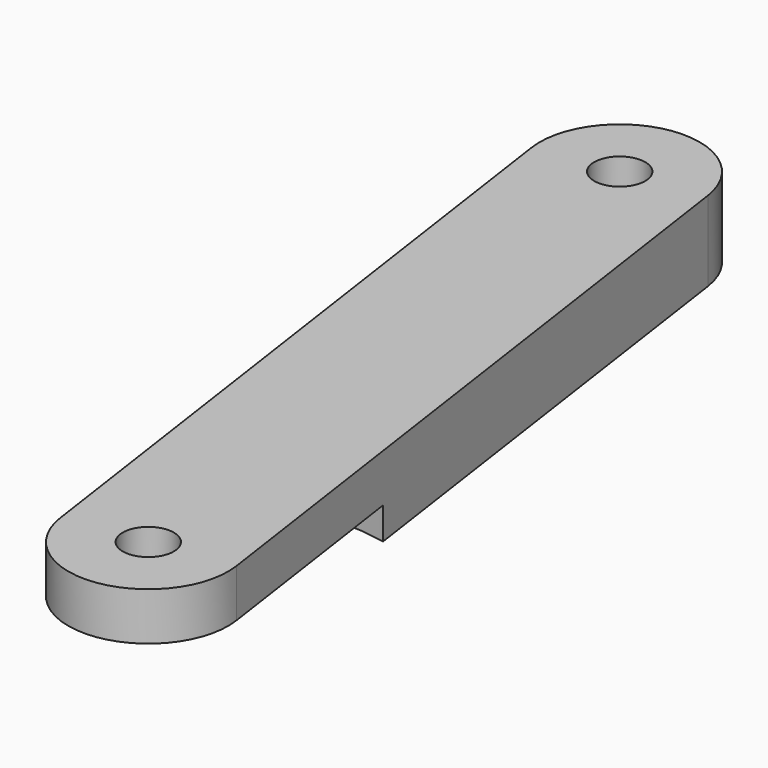
from build123d import *

# Parameters (mm, degrees)
CYLINDER011_R     = 15
CYLINDER011_DEPTH = 2
SKETCH009_R       = 1.6
PAD012_DEPTH      = 5


with BuildPart() as cilindro011:
    # Cylinder011 → Cylinder011 (new body)
    with BuildSketch(Plane(origin=(206.5, 0, -27.5), x_dir=(1, 0, 0), z_dir=(0, 0, 1))):
        Circle(CYLINDER011_R)
    extrude(amount=CYLINDER011_DEPTH)


with BuildPart() as cut007:
    # Sketch009 → Pad012 (new body)
    with BuildSketch(Plane.XY.offset(-27.5)):
        with BuildLine():
            ThreePointArc((201.551358, -0.714804), (207.214804, -4.948642), (211.448642, 0.714804))
            Line((211.448642, 0.714804), (204.948642, 45.714804))
            ThreePointArc((204.948642, 45.714804), (199.285196, 49.948642), (195.051358, 44.285196))
            Line((201.551358, -0.714804), (195.051358, 44.285196))
        make_face()
        with Locations((200, 45)):
            Circle(SKETCH009_R, mode=Mode.SUBTRACT)
        with Locations((206.5, 0)):
            Circle(SKETCH009_R, mode=Mode.SUBTRACT)
    extrude(amount=PAD012_DEPTH)

    # Cut007: cut Cilindro011
    add(cilindro011.part, mode=Mode.SUBTRACT)


solid = cut007.part
